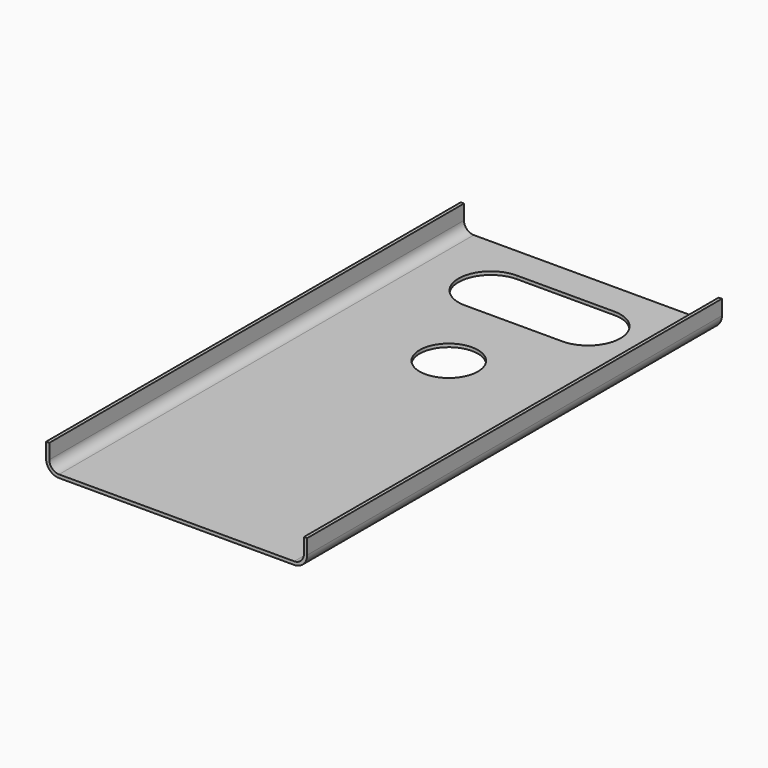
from build123d import *

# Parameters (mm, degrees)
F1_DEPTH = 80
F2_R     = 9
F3_DEPTH = 12.5


with BuildPart() as f1:
    # F0 (on Front) → F1 (new body, symmetric)
    with BuildSketch(Plane.XZ):
        with BuildLine():
            Line((36.3, 0), (-36.3, 0))
            ThreePointArc((-36.3, 0), (-38.42132, 0.87868), (-39.3, 3))
            Line((-39.3, 3), (-39.3, 7.6))
            Line((-39.3, 7.6), (-40.3, 7.6))
            Line((-40.3, 7.6), (-40.3, 3))
            ThreePointArc((-40.3, 3), (-39.128427, 0.171573), (-36.3, -1))
            Line((-36.3, -1), (36.3, -1))
            ThreePointArc((36.3, -1), (39.128427, 0.171573), (40.3, 3))
            Line((40.3, 3), (40.3, 7.6))
            Line((40.3, 7.6), (39.3, 7.6))
            Line((39.3, 7.6), (39.3, 3))
            ThreePointArc((39.3, 3), (38.42132, 0.87868), (36.3, 0))
        make_face()
    extrude(amount=F1_DEPTH, both=True)

    # F2 (on Top) → F3 (cut, symmetric)
    with BuildSketch(Plane.XY):
        with BuildLine():
            Line((-15, 50), (-15, 70))
            ThreePointArc((-15, 70), (-25, 60), (-15, 50))
        make_face()
        with BuildLine():
            ThreePointArc((-5, 60), (-7.928932, 67.071068), (-15, 70))
            Line((-15, 70), (-15, 50))
            ThreePointArc((-15, 50), (-7.928932, 52.928932), (-5, 60))
        make_face()
        with BuildLine():
            ThreePointArc((15, 50), (5, 60), (15, 70))
            Line((15, 70), (-15, 70))
            ThreePointArc((-15, 70), (-7.928932, 67.071068), (-5, 60))
            ThreePointArc((-5, 60), (-7.928932, 52.928932), (-15, 50))
            Line((-15, 50), (15, 50))
        make_face()
        with BuildLine():
            Line((15, 50), (15, 70))
            ThreePointArc((15, 70), (5, 60), (15, 50))
        make_face()
        with BuildLine():
            ThreePointArc((25, 60), (22.071068, 67.071068), (15, 70))
            Line((15, 70), (15, 50))
            ThreePointArc((15, 50), (22.071068, 52.928932), (25, 60))
        make_face()
        with Locations((0, 25)):
            Circle(F2_R)
    extrude(amount=F3_DEPTH, both=True, mode=Mode.SUBTRACT)


solid = f1.part
